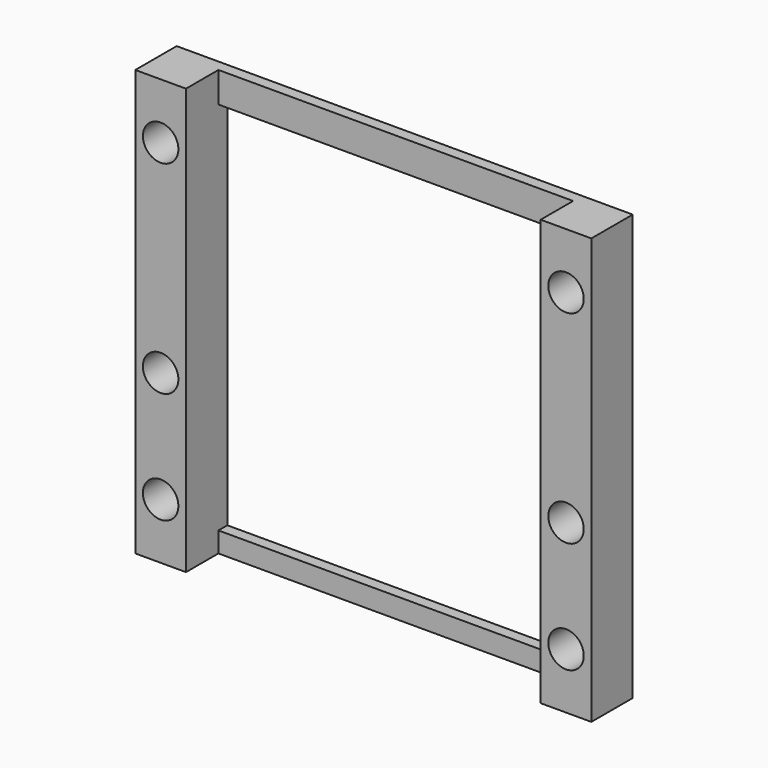
from build123d import *

# Parameters (mm, degrees)
CYLINDER023_R          = 1.75
CYLINDER023_DEPTH      = 44
CYLINDER023_ROLL_ANGLE = 90
CYLINDER024_R          = 1.75
CYLINDER024_DEPTH      = 44
CYLINDER024_ROLL_ANGLE = 90
CYLINDER025_R          = 1.75
CYLINDER025_DEPTH      = 44
CYLINDER025_ROLL_ANGLE = 90
CYLINDER034_R          = 1.75
CYLINDER034_DEPTH      = 44
CYLINDER034_ROLL_ANGLE = 90
CYLINDER035_R          = 1.75
CYLINDER035_DEPTH      = 44
CYLINDER035_ROLL_ANGLE = 90
CYLINDER022_R          = 1.75
CYLINDER022_DEPTH      = 44
CYLINDER022_ROLL_ANGLE = 90
BOX048_W               = 44
BOX048_H               = 1.1
BOX048_DEPTH           = 3
BOX047_W               = 5
BOX047_H               = 5.1
BOX047_DEPTH           = 42
BOX049_W               = 44
BOX049_H               = 1.1
BOX049_DEPTH           = 2
BOX046_W               = 5
BOX046_H               = 5.1
BOX046_DEPTH           = 42


with BuildPart() as cylinder_for_hole_2_motherboard002:
    # Cylinder023 → Cylinder023 (new body)
    with BuildSketch(Plane.XY):
        Circle(CYLINDER023_R)
    extrude(amount=CYLINDER023_DEPTH)


with BuildPart() as cylinder_for_hole_2_motherboard002_1:
    # Cylinder023 roll: moved
    add(cylinder_for_hole_2_motherboard002.part.rotate(Axis((0, 0, 0), (1, 0, 0)), CYLINDER023_ROLL_ANGLE))


with BuildPart() as cylinder_for_hole_2_motherboard002_2:
    # Cylinder023 placement: moved
    add(cylinder_for_hole_2_motherboard002_1.part.moved(Location((20, 6, 17.5))))


with BuildPart() as cylinder_for_hole_9_groovemount_l001:
    # Cylinder024 → Cylinder024 (new body)
    with BuildSketch(Plane.XY):
        Circle(CYLINDER024_R)
    extrude(amount=CYLINDER024_DEPTH)


with BuildPart() as cylinder_for_hole_9_groovemount_l001_1:
    # Cylinder024 roll: moved
    add(cylinder_for_hole_9_groovemount_l001.part.rotate(Axis((0, 0, 0), (1, 0, 0)), CYLINDER024_ROLL_ANGLE))


with BuildPart() as cylinder_for_hole_9_groovemount_l001_2:
    # Cylinder024 placement: moved
    add(cylinder_for_hole_9_groovemount_l001_1.part.moved(Location((-20, 6, -2.5))))


with BuildPart() as cylinder_for_hole_10_groovemount_r001:
    # Cylinder025 → Cylinder025 (new body)
    with BuildSketch(Plane.XY):
        Circle(CYLINDER025_R)
    extrude(amount=CYLINDER025_DEPTH)


with BuildPart() as cylinder_for_hole_10_groovemount_r001_1:
    # Cylinder025 roll: moved
    add(cylinder_for_hole_10_groovemount_r001.part.rotate(Axis((0, 0, 0), (1, 0, 0)), CYLINDER025_ROLL_ANGLE))


with BuildPart() as cylinder_for_hole_10_groovemount_r001_2:
    # Cylinder025 placement: moved
    add(cylinder_for_hole_10_groovemount_r001_1.part.moved(Location((20, 6, -2.5))))


with BuildPart() as cylinder_for_hole_3_motherboard002:
    # Cylinder034 → Cylinder034 (new body)
    with BuildSketch(Plane.XY):
        Circle(CYLINDER034_R)
    extrude(amount=CYLINDER034_DEPTH)


with BuildPart() as cylinder_for_hole_3_motherboard002_1:
    # Cylinder034 roll: moved
    add(cylinder_for_hole_3_motherboard002.part.rotate(Axis((0, 0, 0), (1, 0, 0)), CYLINDER034_ROLL_ANGLE))


with BuildPart() as cylinder_for_hole_3_motherboard002_2:
    # Cylinder034 placement: moved
    add(cylinder_for_hole_3_motherboard002_1.part.moved(Location((-20, 6, -13.5))))


with BuildPart() as cylinder_for_hole_4_motherboard002:
    # Cylinder035 → Cylinder035 (new body)
    with BuildSketch(Plane.XY):
        Circle(CYLINDER035_R)
    extrude(amount=CYLINDER035_DEPTH)


with BuildPart() as cylinder_for_hole_4_motherboard002_1:
    # Cylinder035 roll: moved
    add(cylinder_for_hole_4_motherboard002.part.rotate(Axis((0, 0, 0), (1, 0, 0)), CYLINDER035_ROLL_ANGLE))


with BuildPart() as cylinder_for_hole_4_motherboard002_2:
    # Cylinder035 placement: moved
    add(cylinder_for_hole_4_motherboard002_1.part.moved(Location((20, 6, -13.5))))


with BuildPart() as superstructure_holes:
    # Cylinder022 → Cylinder022 (new body)
    with BuildSketch(Plane.XY):
        Circle(CYLINDER022_R)
    extrude(amount=CYLINDER022_DEPTH)


with BuildPart() as superstructure_holes_1:
    # Cylinder022 roll: moved
    add(superstructure_holes.part.rotate(Axis((0, 0, 0), (1, 0, 0)), CYLINDER022_ROLL_ANGLE))


with BuildPart() as superstructure_holes_2:
    # Cylinder022 placement: moved
    add(superstructure_holes_1.part.moved(Location((-20, 6, 17.5))))

    # Fusion008: union cylinder for hole 2 - Motherboard002, cylinder for hole 9 - Groovemount L001, cylinder for hole 10 - Groovemount R001, cylinder for hole 3 - Motherboard002, cylinder for hole 4 - Motherboard002
    add(cylinder_for_hole_2_motherboard002_2.part)
    add(cylinder_for_hole_9_groovemount_l001_2.part)
    add(cylinder_for_hole_10_groovemount_r001_2.part)
    add(cylinder_for_hole_3_motherboard002_2.part)
    add(cylinder_for_hole_4_motherboard002_2.part)


with BuildPart() as shim_back:
    # Box048 → Box048 (new body)
    with BuildSketch(Plane(origin=(-22, -1, 20), x_dir=(1, 0, 0), z_dir=(0, 0, 1))):
        with Locations((22, 0.55)):
            Rectangle(BOX048_W, BOX048_H)
    extrude(amount=BOX048_DEPTH)


with BuildPart() as shim_l001:
    # Box047 → Box047 (new body)
    with BuildSketch(Plane(origin=(-22.5, -5, -19), x_dir=(1, 0, 0), z_dir=(0, 0, 1))):
        with Locations((2.5, 2.55)):
            Rectangle(BOX047_W, BOX047_H)
    extrude(amount=BOX047_DEPTH)


with BuildPart() as shim_front:
    # Box049 → Box049 (new body)
    with BuildSketch(Plane(origin=(-22, -1, -19), x_dir=(1, 0, 0), z_dir=(0, 0, 1))):
        with Locations((22, 0.55)):
            Rectangle(BOX049_W, BOX049_H)
    extrude(amount=BOX049_DEPTH)


with BuildPart() as superstructure_with_holes:
    # Box046 → Box046 (new body)
    with BuildSketch(Plane(origin=(17.5, -5, -19), x_dir=(1, 0, 0), z_dir=(0, 0, 1))):
        with Locations((2.5, 2.55)):
            Rectangle(BOX046_W, BOX046_H)
    extrude(amount=BOX046_DEPTH)

    # Fusion007: union shim back, shim L001, shim front
    add(shim_back.part)
    add(shim_l001.part)
    add(shim_front.part)

    # Cut007: cut superstructure holes
    add(superstructure_holes_2.part, mode=Mode.SUBTRACT)


solid = superstructure_with_holes.part
